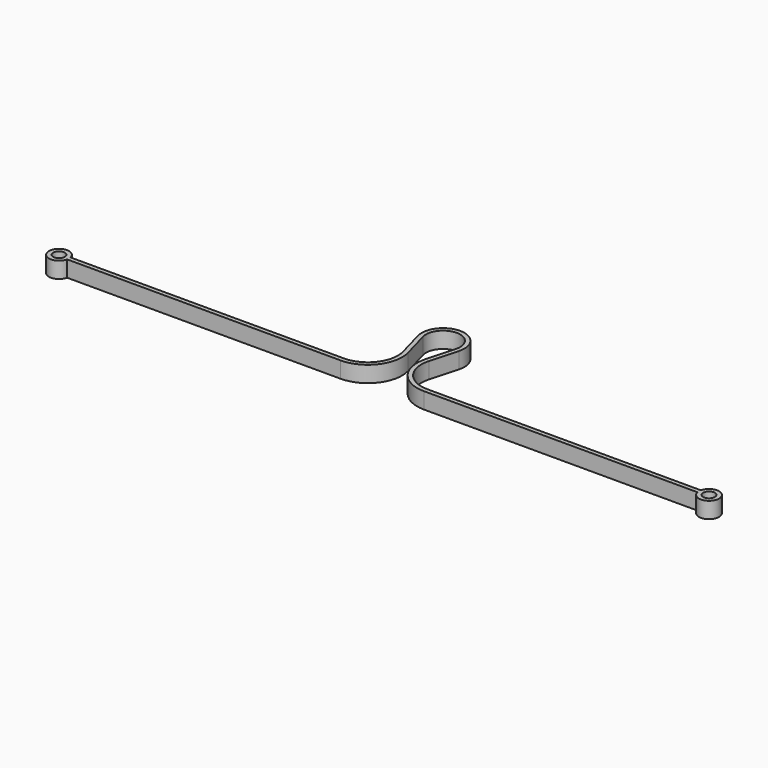
from build123d import *

# Parameters (mm, degrees)
F0_R     = 2.15265
F1_DEPTH = 6


with BuildPart() as f1:
    # F0 (on Top) → F1 (new body)
    with BuildSketch(Plane.XY):
        with BuildLine():
            ThreePointArc((-6.123496, -1.680862), (0, 6.35), (6.123496, -1.680862))
            Line((6.123496, -1.680862), (3.253002, -12.138271))
            ThreePointArc((3.253002, -12.138271), (5.400888, -23.200518), (15.499994, -28.199994))
            Line((15.499994, -28.199994), (116.995047, -28.199994))
            ThreePointArc((116.995047, -28.199994), (124.39015, -27.406244), (116.995047, -26.612494))
            Line((116.995047, -26.612494), (15.499994, -26.612494))
            ThreePointArc((15.499994, -26.612494), (6.663277, -22.237952), (4.783876, -12.558487))
            Line((4.783876, -12.558487), (7.65437, -2.101077))
            ThreePointArc((7.65437, -2.101077), (0, 7.9375), (-7.65437, -2.101077))
            Line((-7.65437, -2.101077), (-4.783876, -12.558487))
            ThreePointArc((-4.783876, -12.558487), (-6.663277, -22.237952), (-15.499994, -26.612494))
            Line((-15.499994, -26.612494), (-116.995047, -26.612494))
            ThreePointArc((-116.995047, -26.612494), (-124.39015, -27.406244), (-116.995047, -28.199994))
            Line((-116.995047, -28.199994), (-15.499994, -28.199994))
            ThreePointArc((-15.499994, -28.199994), (-5.400888, -23.200518), (-3.253002, -12.138271))
            Line((-3.253002, -12.138271), (-6.123496, -1.680862))
        make_face()
        with Locations((-120.65, -27.406244)):
            Circle(F0_R, mode=Mode.SUBTRACT)
        with Locations((120.65, -27.406244)):
            Circle(F0_R, mode=Mode.SUBTRACT)
    extrude(amount=F1_DEPTH)


solid = f1.part
